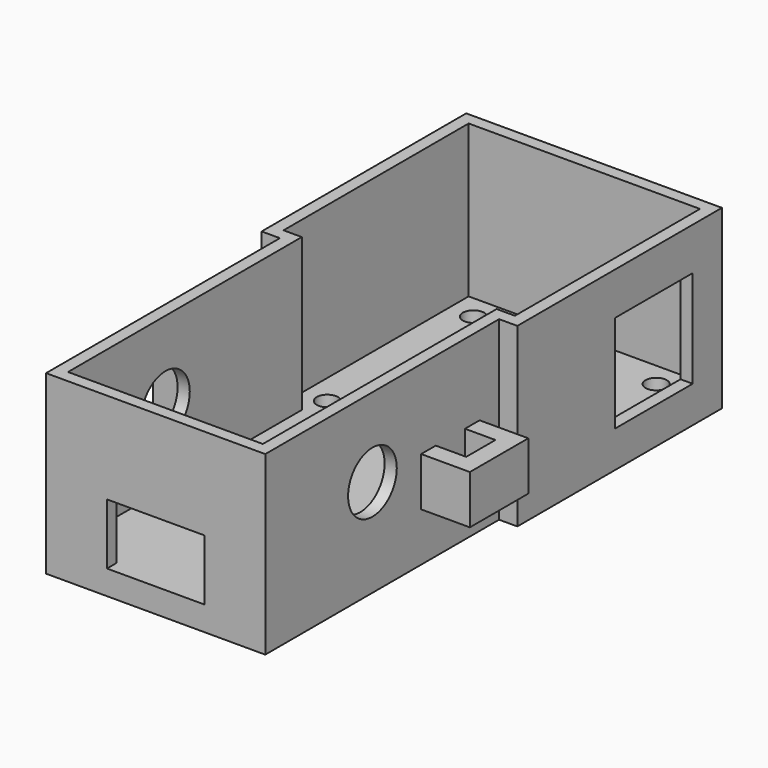
from build123d import *

# Parameters (mm, degrees)
SKETCH_R        = 1.75
PAD_DEPTH       = 4
PAD001_DEPTH    = 25
SKETCH002_W     = 16
SKETCH002_H     = 10
POCKET_DEPTH    = 2
SKETCH003_W     = 16
SKETCH003_H     = 16
POCKET001_DEPTH = 2
SKETCH004_W     = 12
SKETCH004_H     = 8
PAD002_DEPTH    = 8
SKETCH005_W     = 12
SKETCH005_H     = 8
PAD003_DEPTH    = 8
SKETCH006_W     = 5
SKETCH006_H     = 6
POCKET002_DEPTH = 8
SKETCH007_R     = 5
POCKET003_DEPTH = 44.001
SKETCH008_R     = 4
POCKET004_DEPTH = 2


with BuildPart() as part:
    # Sketch → Pad (new body)
    with BuildSketch(Plane.XY):
        Polygon((-21, 21), (21, 21), (21, -21), (18, -21), (18, -69), (-18, -69), (-18, -21), (-21, -21), align=None)
        with Locations((-15, 15)):
            Circle(SKETCH_R, mode=Mode.SUBTRACT)
        with Locations((15, 15)):
            Circle(SKETCH_R, mode=Mode.SUBTRACT)
        with Locations((-15, -15)):
            Circle(SKETCH_R, mode=Mode.SUBTRACT)
        with Locations((15, -15)):
            Circle(SKETCH_R, mode=Mode.SUBTRACT)
    extrude(amount=PAD_DEPTH)

    # Sketch001 (on Face14 of Pad) → Pad001 (join)
    with BuildSketch(Plane.XY.offset(4)):
        Polygon((-21, 21), (21, 21), (21, -21), (18, -21), (18, -69), (-18, -69), (-18, -21), (-21, -21), align=None)
        Polygon((-19, 19), (-19, -19), (-16, -19), (-16, -67), (16, -67), (16, -19), (19, -19), (19, 19), align=None, mode=Mode.SUBTRACT)
    extrude(amount=PAD001_DEPTH)

    # Sketch002 (on Face7 of Pad001) → Pocket (cut)
    with BuildSketch(Plane.XZ.offset(69)):
        with Locations((0, 9)):
            Rectangle(SKETCH002_W, SKETCH002_H)
    extrude(amount=-POCKET_DEPTH, mode=Mode.SUBTRACT)

    # Sketch003 (on Face26 of Pocket) → Pocket001 (cut)
    with BuildSketch(Plane.YZ.offset(21)):
        with Locations((7, 14)):
            Rectangle(SKETCH003_W, SKETCH003_H)
    extrude(amount=-POCKET001_DEPTH, mode=Mode.SUBTRACT)

    # Sketch004 (on Face19 of Pocket001) → Pad002 (join)
    with BuildSketch(Plane.YZ.offset(18)):
        with Locations((-31, 12)):
            Rectangle(SKETCH004_W, SKETCH004_H)
    extrude(amount=PAD002_DEPTH)

    # Sketch005 (on Face5 of Pad002) → Pad003 (join)
    with BuildSketch(Plane(origin=(-18, 0, 0), x_dir=(0, -1, 0), z_dir=(-1, 0, 0))):
        with Locations((31, 12)):
            Rectangle(SKETCH005_W, SKETCH005_H)
    extrude(amount=PAD003_DEPTH)

    # Sketch006 (on Face22 of Pad003) → Pocket002 (cut)
    with BuildSketch(Plane.XY.offset(16)):
        with Locations((-20.5, -31)):
            Rectangle(SKETCH006_W, SKETCH006_H)
        with Locations((20.5, -31)):
            Rectangle(SKETCH006_W, SKETCH006_H)
    extrude(amount=-POCKET002_DEPTH, mode=Mode.SUBTRACT)

    # Sketch007 (on Face24 of Pocket002) → Pocket003 (cut, through all)
    with BuildSketch(Plane.YZ.offset(18)):
        with Locations((-47, 16)):
            Circle(SKETCH007_R)
    extrude(amount=-POCKET003_DEPTH, mode=Mode.SUBTRACT)

    # Sketch008 (on Face4 of Pocket003) → Pocket004 (cut)
    with BuildSketch(Plane(origin=(0, 0, 0), x_dir=(1, 0, 0), z_dir=(0, 0, -1))):
        with Locations((-15, -15)):
            Circle(SKETCH008_R)
        with Locations((-15, 15)):
            Circle(SKETCH008_R)
        with Locations((15, 15)):
            Circle(SKETCH008_R)
        with Locations((15, -15)):
            Circle(SKETCH008_R)
    extrude(amount=-POCKET004_DEPTH, mode=Mode.SUBTRACT)


solid = part.part
